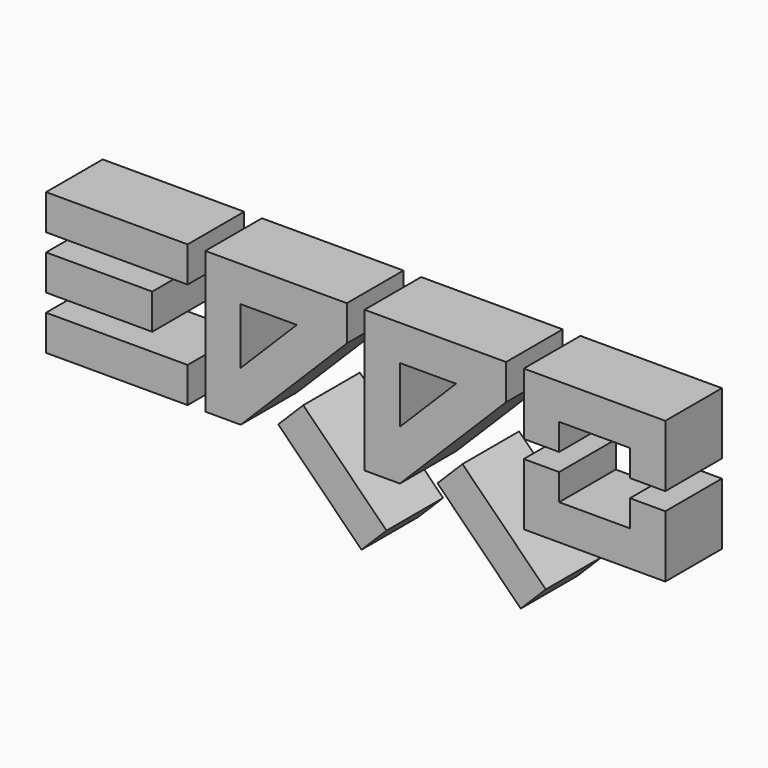
from build123d import *

# Parameters (mm, degrees)
F0_W     = 30
F0_H     = 10
F0_W_2   = 40
F1_DEPTH = 20


with BuildPart() as f1:
    # F0 (on Front) → F1 (new body)
    with BuildSketch(Plane.XZ):
        with Locations((-25, 20)):
            Rectangle(F0_W, F0_H)
        with Locations((-20, 35)):
            Rectangle(F0_W_2, F0_H)
        with Locations((-20, 5)):
            Rectangle(F0_W_2, F0_H)
        Polygon((5, 40), (5, 0), (15, 0), (22.071068, 7.071068), (29.142136, 14.142136), (45, 30), (45, 40), align=None)
        Polygon((15, 14.142136), (15, 30), (30.857864, 30), align=None, mode=Mode.SUBTRACT)
        Polygon((32.67767, 10.606602), (25.606602, 3.535534), (49.142136, -20), (56.213203, -12.928932), align=None)
        Polygon((77.67767, 10.606602), (70.606602, 3.535534), (94.142136, -20), (101.213203, -12.928932), align=None)
        Polygon((50, 40), (50, 0), (60, 0), (67.071068, 7.071068), (74.142136, 14.142136), (90, 30), (90, 40), align=None)
        Polygon((60, 14.142136), (60, 30), (75.857864, 30), align=None, mode=Mode.SUBTRACT)
        Polygon((135, 40), (95, 40), (95, 22.5), (105, 22.5), (105, 30), (125, 30), (125, 22.5), (135, 22.5), align=None)
        Polygon((95, 17.5), (95, 0), (135, 0), (135, 17.5), (125, 17.5), (125, 10), (105, 10), (105, 17.5), align=None)
    extrude(amount=F1_DEPTH)


solid = f1.part
